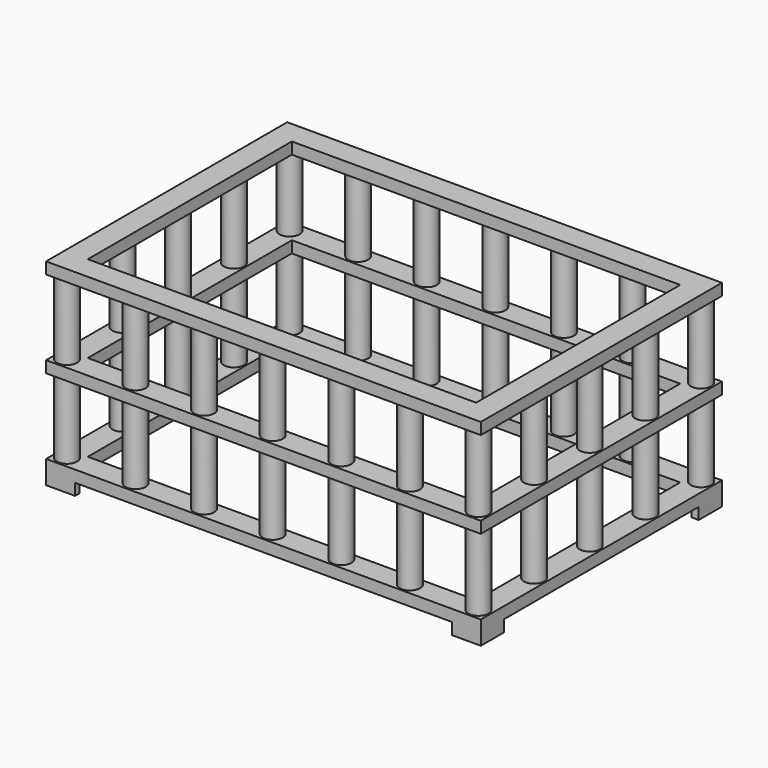
from build123d import *

# Parameters (mm, degrees)
F0_W     = 67
F0_H     = 44
F1_DEPTH = 2
F4_R     = 1.75
F5_DEPTH = 30
F7_DEPTH = 2


with BuildPart() as f1:
    # F0 (on Top) → F1 (new body)
    with BuildSketch(Plane.XY):
        Polygon((-37.5, -21), (-37.5, -26), (-32.5, -26), (-32.5, -25), (-36.5, -25), (-36.5, -21), align=None)
        Polygon((-32.5, -25), (-32.5, -26), (32.5, -26), (32.5, -25), (36.5, -25), (36.5, -21), (37.5, -21), (37.5, 21), (36.5, 21), (36.5, 25), (32.5, 25), (32.5, 26), (-32.5, 26), (-32.5, 25), (-36.5, 25), (-36.5, 21), (-37.5, 21), (-37.5, -21), (-36.5, -21), (-36.5, -25), align=None)
        Rectangle(F0_W, F0_H, mode=Mode.SUBTRACT)
        Polygon((32.5, -25), (32.5, -26), (37.5, -26), (37.5, -21), (36.5, -21), (36.5, -25), align=None)
        Polygon((-37.5, 25), (-37.5, 21), (-36.5, 21), (-36.5, 25), (-32.5, 25), (-32.5, 26), (-36.5, 26), (-37.5, 26), align=None)
        Polygon((36.5, 21), (37.5, 21), (37.5, 25), (37.5, 26), (36.5, 26), (32.5, 26), (32.5, 25), (36.5, 25), align=None)
    extrude(amount=F1_DEPTH)


with BuildPart() as f2_1:
    # F2: copy of F1
    add(f1.part.moved(Location((0, 0, 30))))


with BuildPart() as f3_1:
    # F3: copy of F1
    add(f1.part.moved(Location((0, 0, 15))))


with BuildPart() as f1_1:
    add(f1.part)

    add(f2_1.part)  # F5 merges F2_1

    add(f3_1.part)  # F5 merges F3_1
    # F4 (on Top) → F5 (join)
    with BuildSketch(Plane.XY):
        with Locations((-35.5, 24)):
            Circle(F4_R)
        with Locations((-23.6666666667, 24)):
            Circle(F4_R)
        with Locations((-11.8333333333, 24)):
            Circle(F4_R)
        with Locations((0, 24)):
            Circle(F4_R)
        with Locations((11.8333333333, 24)):
            Circle(F4_R)
        with Locations((23.6666666667, 24)):
            Circle(F4_R)
        with Locations((35.5, 24)):
            Circle(F4_R)
        with Locations((-35.5, 12)):
            Circle(F4_R)
        with Locations((-35.5, 0)):
            Circle(F4_R)
        with Locations((-35.5, -12)):
            Circle(F4_R)
        with Locations((-35.5, -24)):
            Circle(F4_R)
        with Locations((35.5, 12)):
            Circle(F4_R)
        with Locations((35.5, 0)):
            Circle(F4_R)
        with Locations((35.5, -12)):
            Circle(F4_R)
        with Locations((35.5, -24)):
            Circle(F4_R)
        with Locations((-23.6666666667, -24)):
            Circle(F4_R)
        with Locations((-11.8333333333, -24)):
            Circle(F4_R)
        with Locations((0, -24)):
            Circle(F4_R)
        with Locations((11.8333333333, -24)):
            Circle(F4_R)
        with Locations((23.6666666667, -24)):
            Circle(F4_R)
    extrude(amount=F5_DEPTH)

    # F6 (on face) → F7 (join)
    with BuildSketch(Plane(origin=(0, 0, 0), x_dir=(1, 0, 0), z_dir=(0, 0, -1))):
        Polygon((-32.5, 26), (-37.5, 26), (-37.5, 21), (-36.2434542816, 21), (-36.2434542816, 25), (-32.5, 25), align=None)
    extrude(amount=F7_DEPTH)

    # F8: F1 across plane


with BuildPart() as f1_2:
    add(f1_1.part)
    add(f1_1.part.mirror(Plane.YZ))

    # F9: F1 across plane


with BuildPart() as f1_3:
    add(f1_2.part)
    add(f1_2.part.mirror(Plane.XZ))


solid = f1_3.part
